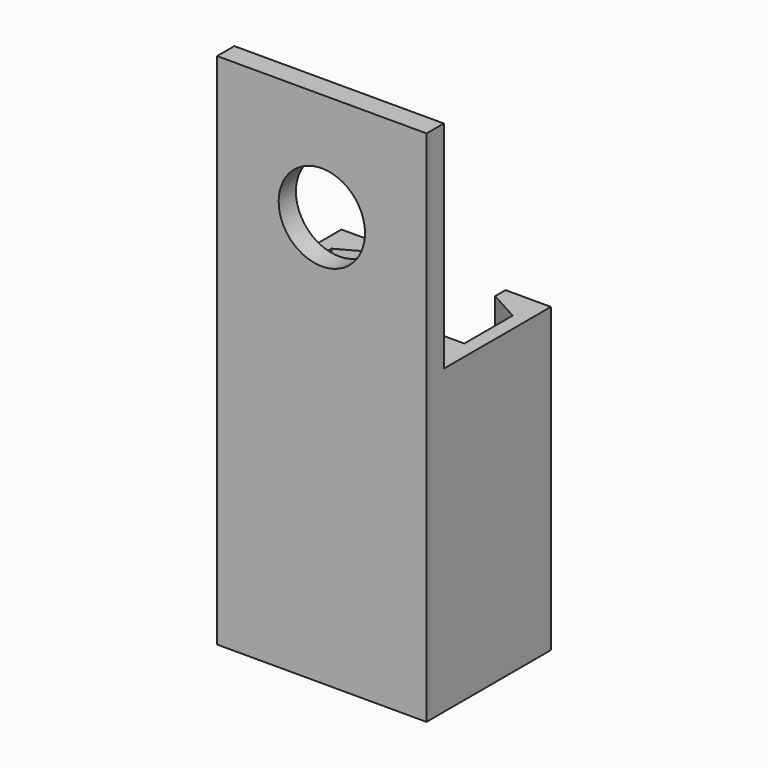
from build123d import *

# Parameters (mm, degrees)
PAD_DEPTH    = 14
SKETCH001_W  = 9.7
SKETCH001_H  = 1
PAD001_DEPTH = 10
SKETCH002_R  = 2
POCKET_DEPTH = 5


with BuildPart() as part:
    # Sketch → Pad (new body)
    with BuildSketch(Plane.XY):
        Polygon((-2.75, 3.516621), (-4.85, 3.516621), (-4.85, -3.683379), (4.85, -3.683379), (4.85, 3.516621), (2.75, 3.516621), (2.75, 2.916621), (4.2, 2.116621), (4.2, -0.683379), (-0.7, -0.683379), (-0.7, -1.683379), (-1.9, -1.683379), (-1.9, -0.683379), (-4.2, -0.683379), (-4.2, 2.116621), (-2.75, 2.916621), align=None)
    extrude(amount=PAD_DEPTH)

    # Sketch001 → Pad001 (new body)
    with BuildSketch(Plane.XY.offset(14)):
        with Locations((0, -3.183379)):
            Rectangle(SKETCH001_W, SKETCH001_H)
    extrude(amount=PAD001_DEPTH)

    # Sketch002 → Pocket (cut)
    with BuildSketch(Plane(origin=(0, -2.683379, 0), x_dir=(-1, 0, 0), z_dir=(0, 1, 0))):
        with Locations((0, 19)):
            Circle(SKETCH002_R)
    extrude(amount=-POCKET_DEPTH, mode=Mode.SUBTRACT)


solid = part.part
